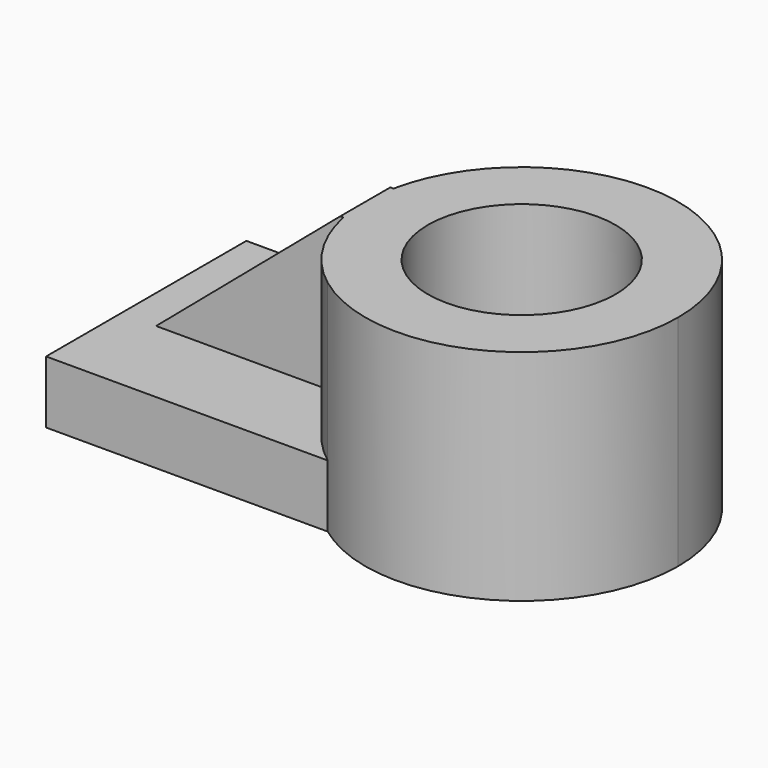
from build123d import *

# Parameters (mm, degrees)
F1_DEPTH = 12.7
F0_R     = 19.05
F2_DEPTH = 44.45
F4_DEPTH = 6.35


with BuildPart() as f1:
    # F0 (on Top) → F1 (new body)
    with BuildSketch(Plane.XY):
        with BuildLine():
            Line((-38.1, -25.4), (19.05, -25.4))
            ThreePointArc((19.05, -25.4), (6.35, 0), (19.05, 25.4))
            Line((19.05, 25.4), (-38.1, 25.4))
            Line((-38.1, 25.4), (-38.1, -25.4))
        make_face()
    extrude(amount=F1_DEPTH)

    # F0 (on Top) → F2 (join)
    with BuildSketch(Plane.XY):
        with BuildLine():
            ThreePointArc((19.05, 25.4), (6.35, 0), (19.05, -25.4))
            ThreePointArc((19.05, -25.4), (52.299032, -28.398063), (69.85, 0))
            ThreePointArc((69.85, 0), (52.299032, 28.398063), (19.05, 25.4))
        make_face()
        with Locations((38.1, 0)):
            Circle(F0_R, mode=Mode.SUBTRACT)
    extrude(amount=F2_DEPTH)

    # F3 (on Front) → F4 (join, symmetric)
    with BuildSketch(Plane.XZ):
        Polygon((6.35, 12.7), (19.05, 12.7), (19.05, 44.45), (6.35, 44.45), (-31.013487, 12.7), align=None)
    extrude(amount=F4_DEPTH, both=True)


solid = f1.part
